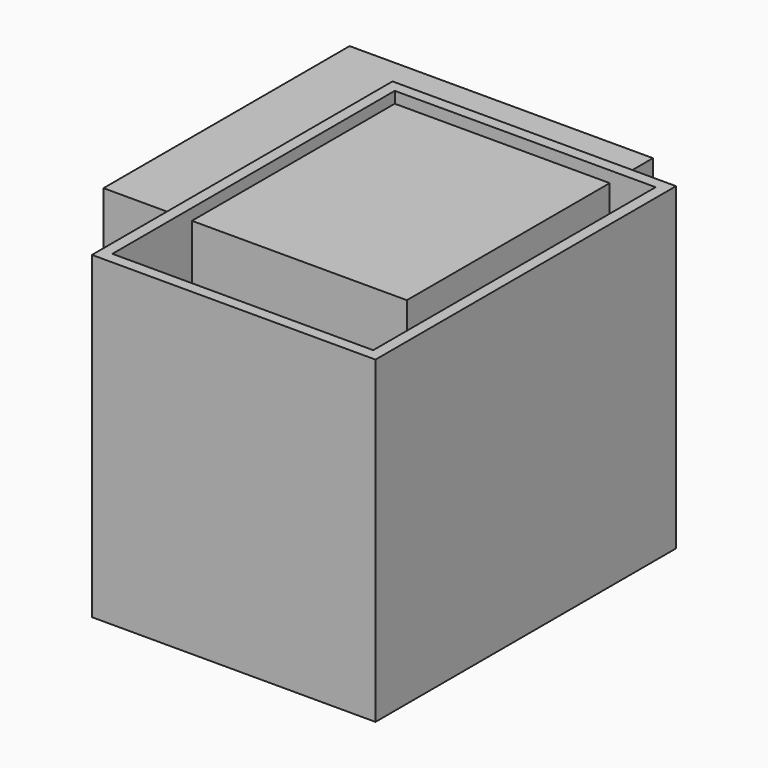
from build123d import *

# Parameters (mm, degrees)
F0_W     = 400
F0_H     = 530
F2_DEPTH = 450
F3_T     = -16
F1_W     = 428
F1_H     = 434
F4_DEPTH = 434
F5_T     = -16


with BuildPart() as f2:
    # F0 (on Top) → F2 (new body)
    with BuildSketch(Plane.XY):
        with Locations((-3.6404564339, 43.1266156584)):
            Rectangle(F0_W, F0_H)
    extrude(amount=F2_DEPTH)

    # F3
    f3_openings = [f2.faces().sort_by_distance(p)[0] for p in [
        (-3.640456, 43.126616, 450),
    ]]
    offset(amount=F3_T, openings=f3_openings)


with BuildPart() as f4:
    # F1 (on face) → F4 (new body)
    with BuildSketch(Plane.XY):
        with Locations((-98.3959314227, 151.4040260927)):
            Rectangle(F1_W, F1_H)
    extrude(amount=F4_DEPTH)

    # F5
    f5_openings = [f4.faces().sort_by_distance(p)[0] for p in [
        (-98.395931, 151.404026, 0),
    ]]
    offset(amount=F5_T, openings=f5_openings)


solid = Compound([f2.part, f4.part])
